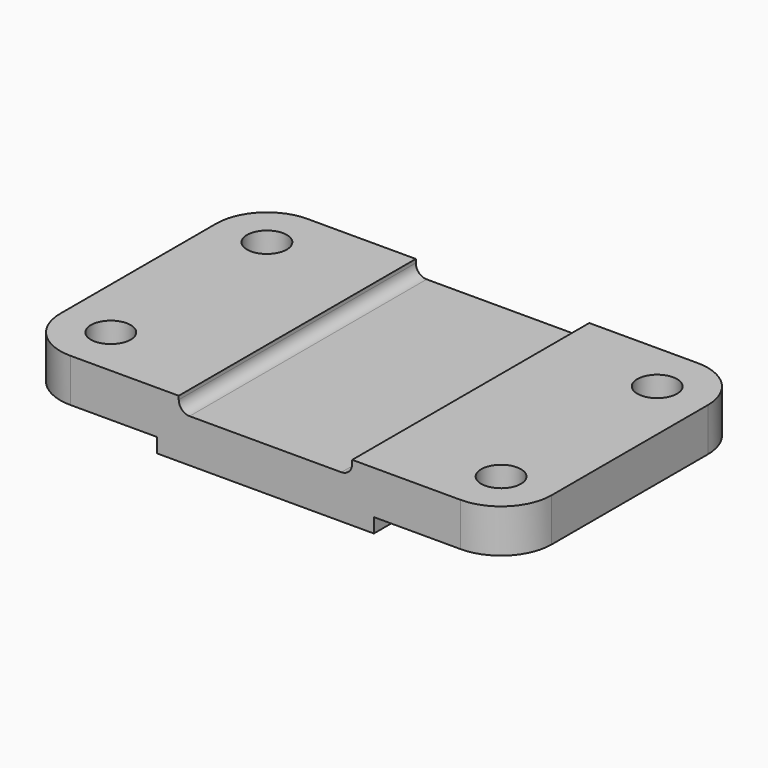
from build123d import *

# Parameters (mm, degrees)
F0_R     = 5.5
F1_DEPTH = 16
F2_W     = 38
F2_H     = 4
F3_DEPTH = 82.001


with BuildPart() as f1:
    # F0 (on Top) → F1 (new body)
    with BuildSketch(Plane.XY):
        with BuildLine():
            Line((80.385661, 51.955569), (-27.614339, 51.955569))
            ThreePointArc((-27.614339, 51.955569), (-37.513834, 47.855064), (-41.614339, 37.955569))
            Line((-41.614339, 37.955569), (-41.614339, -16.044431))
            ThreePointArc((-41.614339, -16.044431), (-37.513834, -25.943926), (-27.614339, -30.044431))
            Line((-27.614339, -30.044431), (80.385661, -30.044431))
            ThreePointArc((80.385661, -30.044431), (90.285156, -25.943926), (94.385661, -16.044431))
            Line((94.385661, -16.044431), (94.385661, 37.955569))
            ThreePointArc((94.385661, 37.955569), (90.285156, 47.855064), (80.385661, 51.955569))
        make_face()
        with Locations((-27.614339, -16.044431)):
            Circle(F0_R, mode=Mode.SUBTRACT)
        with Locations((80.385661, -16.044431)):
            Circle(F0_R, mode=Mode.SUBTRACT)
        with Locations((-27.614339, 37.955569)):
            Circle(F0_R, mode=Mode.SUBTRACT)
        with Locations((80.385661, 37.955569)):
            Circle(F0_R, mode=Mode.SUBTRACT)
    extrude(amount=F1_DEPTH)

    # F2 (on face) → F3 (cut, through all)
    with BuildSketch(Plane.XZ.offset(30.044431)):
        with BuildLine():
            Line((50.385661, 16), (2.385661, 16))
            Line((2.385661, 16), (2.385661, 15))
            ThreePointArc((2.385661, 15), (3.264341, 12.87868), (5.385661, 12))
            Line((5.385661, 12), (47.385661, 12))
            ThreePointArc((47.385661, 12), (49.506982, 12.87868), (50.385661, 15))
            Line((50.385661, 15), (50.385661, 16))
        make_face()
        with Locations((75.385661, 2)):
            Rectangle(F2_W, F2_H)
        with Locations((-22.614339, 2)):
            Rectangle(F2_W, F2_H)
    extrude(amount=-F3_DEPTH, mode=Mode.SUBTRACT)


solid = f1.part
